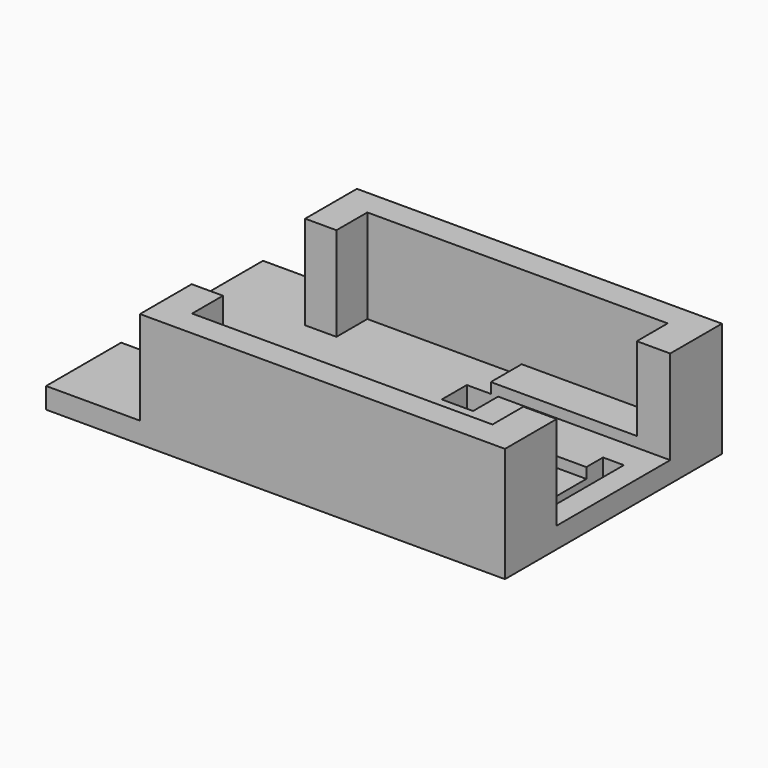
from build123d import *

# Parameters (mm, degrees)
BOX003_W     = 29.8
BOX003_H     = 4
BOX003_DEPTH = 1
BOX004_W     = 3
BOX004_H     = 3
BOX004_DEPTH = 2
BOX005_W     = 3
BOX005_H     = 3
BOX005_DEPTH = 2
BOX006_W     = 2
BOX006_H     = 8
BOX006_DEPTH = 2
BOX002_W     = 29.8
BOX002_H     = 13.6
BOX002_DEPTH = 9
BOX001_W     = 32
BOX001_H     = 24
BOX001_DEPTH = 2
BOX015_W     = 3
BOX015_H     = 5.2
BOX015_DEPTH = 11
BOX008_W     = 15
BOX008_H     = 3.7
BOX008_DEPTH = 1
BOX009_W     = 3.2
BOX009_H     = 3.7
BOX009_DEPTH = 9
BOX010_W     = 3.2
BOX010_H     = 3.7
BOX010_DEPTH = 9
BOX011_W     = 32
BOX011_H     = 1.5
BOX011_DEPTH = 9
BOX012_W     = 32
BOX012_H     = 1.5
BOX012_DEPTH = 9
BOX017_W     = 35
BOX017_H     = 1
BOX017_DEPTH = 11
BOX016_W     = 3
BOX016_H     = 8
BOX016_DEPTH = 2
BOX013_W     = 12
BOX013_H     = 24
BOX013_DEPTH = 2
BOX014_W     = 3
BOX014_H     = 5.2
BOX014_DEPTH = 11
BOX019_W     = 9
BOX019_H     = 1
BOX019_DEPTH = 2
BOX018_W     = 35
BOX018_H     = 1
BOX018_DEPTH = 11
BOX020_W     = 9
BOX020_H     = 1
BOX020_DEPTH = 2
BOX007_W     = 15
BOX007_H     = 3.7
BOX007_DEPTH = 1


with BuildPart() as cube003:
    # Box003 → Box003 (new body)
    with BuildSketch(Plane(origin=(0, -2, 1), x_dir=(1, 0, 0), z_dir=(0, 0, 1))):
        with Locations((14.9, 2)):
            Rectangle(BOX003_W, BOX003_H)
    extrude(amount=BOX003_DEPTH)


with BuildPart() as cube004:
    # Box004 → Box004 (new body)
    with BuildSketch(Plane(origin=(12.5, 3.8, 0), x_dir=(1, 0, 0), z_dir=(0, 0, 1))):
        with Locations((1.5, 1.5)):
            Rectangle(BOX004_W, BOX004_H)
    extrude(amount=BOX004_DEPTH)


with BuildPart() as cube005:
    # Box005 → Box005 (new body)
    with BuildSketch(Plane(origin=(12.5, -6.8, 0), x_dir=(1, 0, 0), z_dir=(0, 0, 1))):
        with Locations((1.5, 1.5)):
            Rectangle(BOX005_W, BOX005_H)
    extrude(amount=BOX005_DEPTH)


with BuildPart() as cube006:
    # Box006 → Box006 (new body)
    with BuildSketch(Plane(origin=(27.8, -4, 0), x_dir=(1, 0, 0), z_dir=(0, 0, 1))):
        with Locations((1, 4)):
            Rectangle(BOX006_W, BOX006_H)
    extrude(amount=BOX006_DEPTH)


with BuildPart() as fusion:
    # Box002 → Box002 (new body)
    with BuildSketch(Plane(origin=(0, -6.8, 2), x_dir=(1, 0, 0), z_dir=(0, 0, 1))):
        with Locations((14.9, 6.8)):
            Rectangle(BOX002_W, BOX002_H)
    extrude(amount=BOX002_DEPTH)

    # Fusion: union Cube003, Cube004, Cube005, Cube006
    add(cube003.part)
    add(cube004.part)
    add(cube005.part)
    add(cube006.part)


with BuildPart() as cut:
    # Box001 → Box001 (new body)
    with BuildSketch(Plane(origin=(0, -12, 0), x_dir=(1, 0, 0), z_dir=(0, 0, 1))):
        with Locations((16, 12)):
            Rectangle(BOX001_W, BOX001_H)
    extrude(amount=BOX001_DEPTH)

    # Cut: cut Fusion
    add(fusion.part, mode=Mode.SUBTRACT)


with BuildPart() as cube015:
    # Box015 → Box015 (new body)
    with BuildSketch(Plane(origin=(-3, -12, 0), x_dir=(1, 0, 0), z_dir=(0, 0, 1))):
        with Locations((1.5, 2.6)):
            Rectangle(BOX015_W, BOX015_H)
    extrude(amount=BOX015_DEPTH)


with BuildPart() as cube008:
    # Box008 → Box008 (new body)
    with BuildSketch(Plane(origin=(14.8, -10.5, 2), x_dir=(1, 0, 0), z_dir=(0, 0, 1))):
        with Locations((7.5, 1.85)):
            Rectangle(BOX008_W, BOX008_H)
    extrude(amount=BOX008_DEPTH)


with BuildPart() as cube009:
    # Box009 → Box009 (new body)
    with BuildSketch(Plane(origin=(28.8, 6.8, 2), x_dir=(1, 0, 0), z_dir=(0, 0, 1))):
        with Locations((1.6, 1.85)):
            Rectangle(BOX009_W, BOX009_H)
    extrude(amount=BOX009_DEPTH)


with BuildPart() as cube010:
    # Box010 → Box010 (new body)
    with BuildSketch(Plane(origin=(28.8, -10.5, 2), x_dir=(1, 0, 0), z_dir=(0, 0, 1))):
        with Locations((1.6, 1.85)):
            Rectangle(BOX010_W, BOX010_H)
    extrude(amount=BOX010_DEPTH)


with BuildPart() as cube011:
    # Box011 → Box011 (new body)
    with BuildSketch(Plane(origin=(0, 10.5, 2), x_dir=(1, 0, 0), z_dir=(0, 0, 1))):
        with Locations((16, 0.75)):
            Rectangle(BOX011_W, BOX011_H)
    extrude(amount=BOX011_DEPTH)


with BuildPart() as cube012:
    # Box012 → Box012 (new body)
    with BuildSketch(Plane(origin=(0, -12, 2), x_dir=(1, 0, 0), z_dir=(0, 0, 1))):
        with Locations((16, 0.75)):
            Rectangle(BOX012_W, BOX012_H)
    extrude(amount=BOX012_DEPTH)


with BuildPart() as cube017:
    # Box017 → Box017 (new body)
    with BuildSketch(Plane(origin=(-3, -13, 0), x_dir=(1, 0, 0), z_dir=(0, 0, 1))):
        with Locations((17.5, 0.5)):
            Rectangle(BOX017_W, BOX017_H)
    extrude(amount=BOX017_DEPTH)


with BuildPart() as cube016:
    # Box016 → Box016 (new body)
    with BuildSketch(Plane(origin=(-12, -4, 0), x_dir=(1, 0, 0), z_dir=(0, 0, 1))):
        with Locations((1.5, 4)):
            Rectangle(BOX016_W, BOX016_H)
    extrude(amount=BOX016_DEPTH)


with BuildPart() as cut001:
    # Box013 → Box013 (new body)
    with BuildSketch(Plane(origin=(-12, -12, 0), x_dir=(1, 0, 0), z_dir=(0, 0, 1))):
        with Locations((6, 12)):
            Rectangle(BOX013_W, BOX013_H)
    extrude(amount=BOX013_DEPTH)

    # Cut001: cut Cube016
    add(cube016.part, mode=Mode.SUBTRACT)


with BuildPart() as cube014:
    # Box014 → Box014 (new body)
    with BuildSketch(Plane(origin=(-3, 6.8, 0), x_dir=(1, 0, 0), z_dir=(0, 0, 1))):
        with Locations((1.5, 2.6)):
            Rectangle(BOX014_W, BOX014_H)
    extrude(amount=BOX014_DEPTH)


with BuildPart() as cube019:
    # Box019 → Box019 (new body)
    with BuildSketch(Plane(origin=(-12, 12, 0), x_dir=(1, 0, 0), z_dir=(0, 0, 1))):
        with Locations((4.5, 0.5)):
            Rectangle(BOX019_W, BOX019_H)
    extrude(amount=BOX019_DEPTH)


with BuildPart() as cube018:
    # Box018 → Box018 (new body)
    with BuildSketch(Plane(origin=(-3, 12, 0), x_dir=(1, 0, 0), z_dir=(0, 0, 1))):
        with Locations((17.5, 0.5)):
            Rectangle(BOX018_W, BOX018_H)
    extrude(amount=BOX018_DEPTH)


with BuildPart() as cube020:
    # Box020 → Box020 (new body)
    with BuildSketch(Plane(origin=(-12, -13, 0), x_dir=(1, 0, 0), z_dir=(0, 0, 1))):
        with Locations((4.5, 0.5)):
            Rectangle(BOX020_W, BOX020_H)
    extrude(amount=BOX020_DEPTH)


with BuildPart() as bottom:
    # Box007 → Box007 (new body)
    with BuildSketch(Plane(origin=(14.8, 6.8, 2), x_dir=(1, 0, 0), z_dir=(0, 0, 1))):
        with Locations((7.5, 1.85)):
            Rectangle(BOX007_W, BOX007_H)
    extrude(amount=BOX007_DEPTH)

    # Fusion001: union Cut, Cube015, Cube008, Cube009, Cube010, Cube011, Cube012, Cube017, Cut001, Cube014, Cube019, Cube018, Cube020
    add(cut.part)
    add(cube015.part)
    add(cube008.part)
    add(cube009.part)
    add(cube010.part)
    add(cube011.part)
    add(cube012.part)
    add(cube017.part)
    add(cut001.part)
    add(cube014.part)
    add(cube019.part)
    add(cube018.part)
    add(cube020.part)


with BuildPart() as bottom_1:
    # Fusion001 placement: moved
    add(bottom.part.moved(Location((30, 0, 0))))


solid = bottom_1.part
